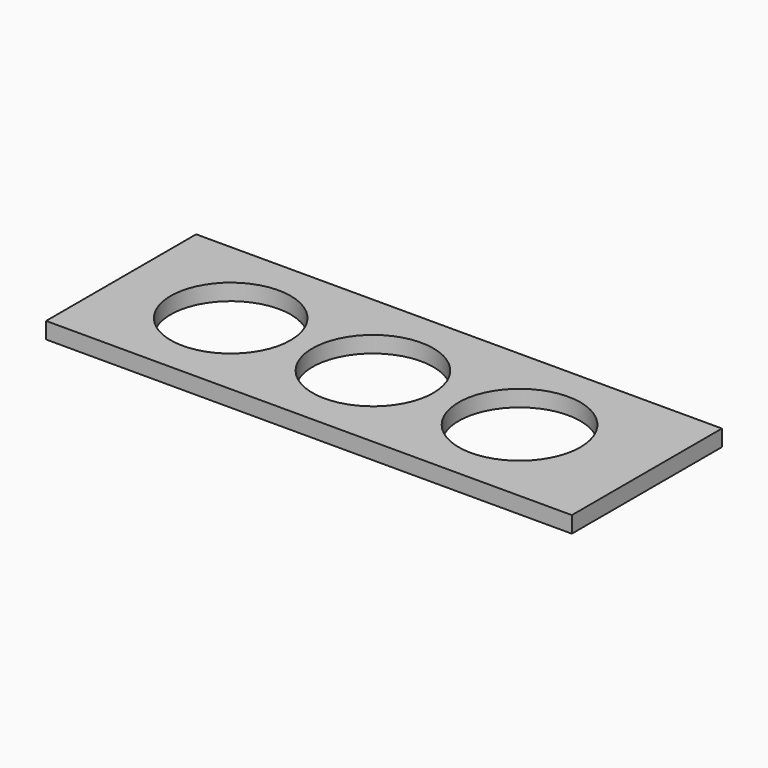
from build123d import *

# Parameters (mm, degrees)
F0_W     = 96.37399
F0_H     = 34.386914
F0_R     = 11
F0_R_2   = 11.075
F0_R_3   = 11.15
F1_DEPTH = 3


with BuildPart() as f1:
    # F0 (on Top) → F1 (new body)
    with BuildSketch(Plane.XY):
        Rectangle(F0_W, F0_H)
        with Locations((-28.1044, 0)):
            Circle(F0_R, mode=Mode.SUBTRACT)
        with Locations((-2.028686, 0)):
            Circle(F0_R_2, mode=Mode.SUBTRACT)
        with Locations((24.844104, 0)):
            Circle(F0_R_3, mode=Mode.SUBTRACT)
    extrude(amount=F1_DEPTH)


solid = f1.part
